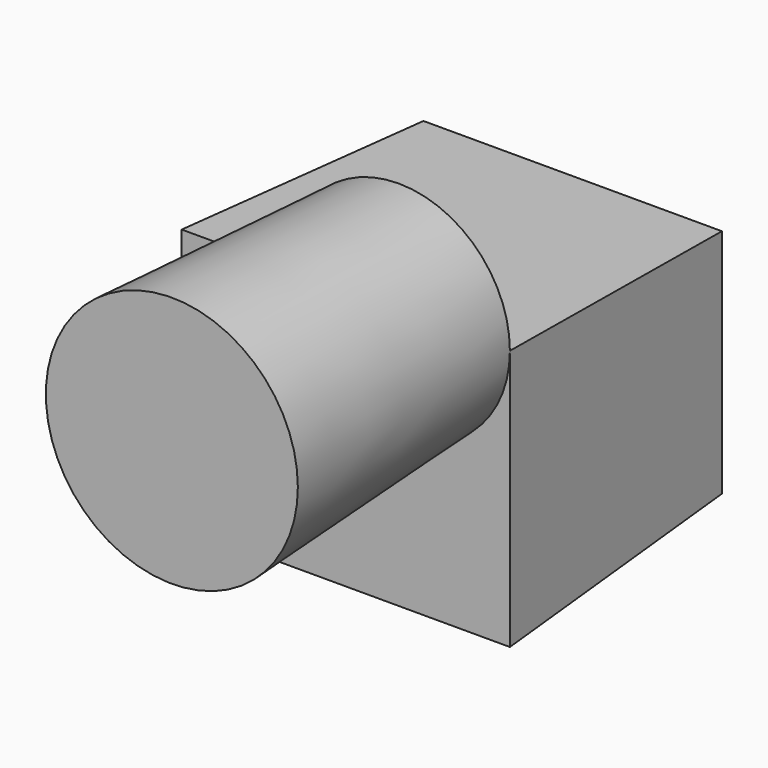
from build123d import *

# Parameters (mm, degrees)
F0_W     = 80.1909789443
F0_H     = 62.0844513178
F1_DEPTH = 76.2
F1_TAPER = -3
F2_R     = 29.8619780209
F3_DEPTH = 76.2
F3_TAPER = -3


with BuildPart() as f1:
    # F0 (on Front) → F1 (new body)
    with BuildSketch(Plane.XZ):
        with Locations((17.5543613732, 1.1086538434)):
            Rectangle(F0_W, F0_H)
    extrude(amount=F1_DEPTH, taper=F1_TAPER)

    # F2 (on face) → F3 (join)
    with BuildSketch(Plane.XZ.offset(76.2)):
        with Locations((31.7813456059, 36.1443522837)):
            Circle(F2_R)
    extrude(amount=F3_DEPTH, taper=F3_TAPER)


solid = f1.part
